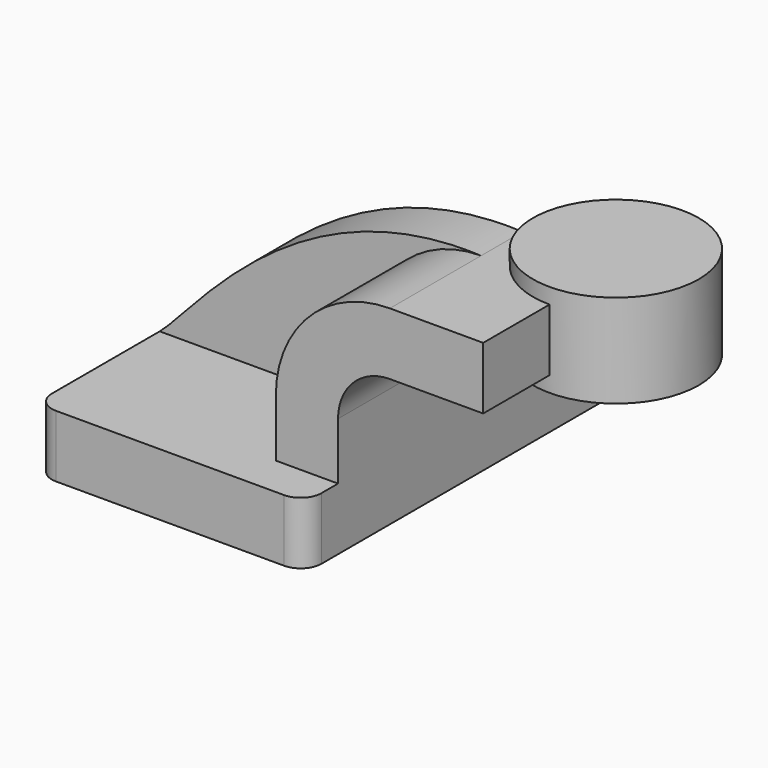
from build123d import *

# Parameters (mm, degrees)
F1_DEPTH = 63.5
F0_W     = 25.4
F0_H     = 19.05
F2_DEPTH = 50.8
F3_DEPTH = 15.875
F5_R     = 6.35


with BuildPart() as f1:
    # F0 (on Front) → F1 (new body, symmetric)
    with BuildSketch(Plane.XZ):
        Polygon((-41.275, -9.525), (41.275, -9.525), (41.275, 9.525), (22.225, 9.525), (-41.275, 9.525), align=None)
    extrude(amount=F1_DEPTH, both=True)

    # F0 (on Front) → F2 (join)
    with BuildSketch(Plane.XZ):
        with BuildLine():
            Line((22.225, 9.525), (41.275, 9.525))
            Line((41.275, 9.525), (41.275, 27.0002))
            ThreePointArc((41.275, 27.0002), (45.92468, 38.22552), (57.15, 42.8752))
            Line((57.15, 42.8752), (60.325, 42.8752))
            Line((60.325, 42.8752), (60.325, 61.9252))
            Line((60.325, 61.9252), (57.15, 61.9252))
            ThreePointArc((57.15, 61.9252), (32.454296, 51.695904), (22.225, 27.0002))
            Line((22.225, 27.0002), (22.225, 9.525))
        make_face()
        with Locations((73.025, 52.4002)):
            Rectangle(F0_W, F0_H)
    extrude(amount=F2_DEPTH)

    # F0 (on Front) → F3 (join)
    with BuildSketch(Plane.XZ):
        with BuildLine():
            add(Edge.make_bspline(
                [(-41.275, 9.525), (-30.858979, 18.073546), (0, 64.438261), (57.15, 61.9252)],
                knots=[0, 0, 0, 0, 111.504536, 111.504536, 111.504536, 111.504536], degree=3))
            Line((-41.275, 9.525), (22.225, 9.525))
            Line((22.225, 9.525), (22.225, 27.0002))
            ThreePointArc((22.225, 27.0002), (32.454296, 51.695904), (57.15, 61.9252))
        make_face()
    extrude(amount=F3_DEPTH)

    # F0 (on Front) → F4 (revolve)
    with BuildSketch(Plane.XZ):
        Polygon((85.725, 66.675), (85.725, 61.9252), (85.725, 42.8752), (85.725, 38.1), (111.125, 38.1), (111.125, 66.675), align=None)
    revolve(axis=Axis((85.725, 0, 52.3875), (0, 0, -1)))

    # F5
    f5_edges = [f1.edges().sort_by_distance(p)[0] for p in [
        (-41.275, -63.5, 0),
        (41.275, -63.5, 0),
        (-41.275, 63.5, 0),
        (41.275, 63.5, 0),
    ]]
    fillet(f5_edges, radius=F5_R)


solid = f1.part
